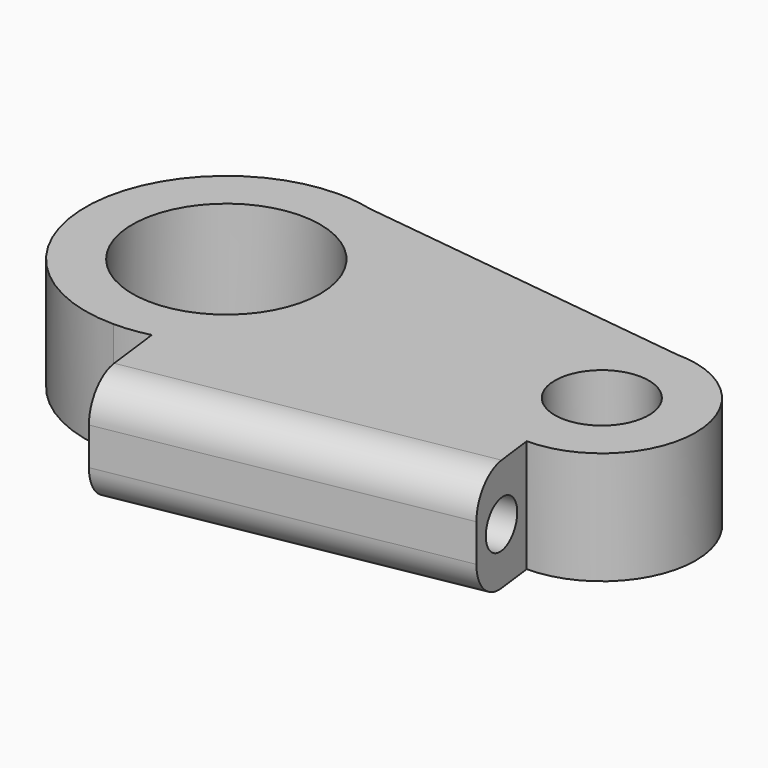
from build123d import *

# Parameters (mm, degrees)
F0_R     = 6.35
F1_DEPTH = 7.62
F3_DEPTH = 7.62
F4_R     = 1.5875
F5_DEPTH = 25.4
F6_R     = 2.54


with BuildPart() as f1:
    # F0 (on Top) → F1 (new body)
    with BuildSketch(Plane.XY):
        with BuildLine():
            ThreePointArc((28.575, 0), (25.4, 3.175), (22.225, 0))
            ThreePointArc((22.225, 0), (25.4, -3.175), (28.575, 0))
        make_face()
        Circle(F0_R)
        with BuildLine():
            Line((0, 9.525), (2.344615, 9.231923))
            ThreePointArc((2.344615, 9.231923), (1.181431, 9.451447), (0, 9.525))
        make_face()
        with BuildLine():
            Line((25.4, 6.35), (2.344615, 9.231923))
            Line((2.344615, 9.231923), (0, 9.525))
            ThreePointArc((0, 9.525), (-9.525, 0), (0, -9.525))
            Line((0, -9.525), (2.344615, -9.231923))
            Line((2.344615, -9.231923), (25.4, -6.35))
            ThreePointArc((25.4, -6.35), (31.75, 0), (25.4, 6.35))
        make_face()
        Circle(F0_R, mode=Mode.SUBTRACT)
        with BuildLine():
            ThreePointArc((28.575, 0), (25.4, -3.175), (22.225, 0))
            ThreePointArc((22.225, 0), (25.4, 3.175), (28.575, 0))
        make_face(mode=Mode.SUBTRACT)
        with BuildLine():
            Line((2.344615, -9.231923), (0, -9.525))
            ThreePointArc((0, -9.525), (1.181431, -9.451447), (2.344615, -9.231923))
        make_face()
    extrude(amount=F1_DEPTH)

    # F2 (on face) → F3 (join)
    with BuildSketch(Plane.XY.offset(7.62)):
        Polygon((26.030454, -11.393635), (25.4, -6.35), (2.344615, -9.231923), (3.132236, -15.532888), align=None)
    extrude(amount=-F3_DEPTH)

    # F4 (on face) → F5 (cut)
    with BuildSketch(Plane(origin=(24.227692, 3.028462, 0), x_dir=(-0.124035, 0.992278, 0), z_dir=(0.992278, 0.124035, 0))):
        with Locations((-11.998785, 3.81)):
            Circle(F4_R)
    extrude(amount=-F5_DEPTH, mode=Mode.SUBTRACT)

    # F6
    f6_edges = [f1.edges().sort_by_distance(p)[0] for p in [
        (14.581345, -13.463261, 7.62),
        (14.581345, -13.463261, 0),
    ]]
    fillet(f6_edges, radius=F6_R)


solid = f1.part
